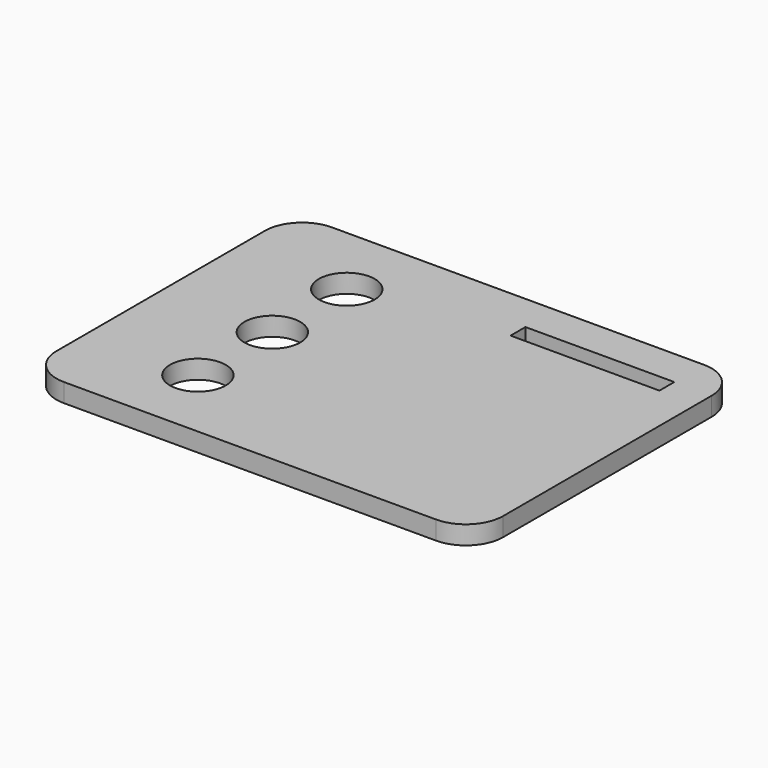
from build123d import *

# Parameters (mm, degrees)
F0_W     = 152.4
F0_H     = 114.3
F1_DEPTH = 6.35
F2_R     = 9.525
F3_DEPTH = 25.4
F5_R     = 12.7
F6_W     = 50.8
F6_H     = 6.35
F7_DEPTH = 25.4


with BuildPart() as f1:
    # F0 (on Top) → F1 (new body)
    with BuildSketch(Plane.XY):
        Rectangle(F0_W, F0_H)
    extrude(amount=F1_DEPTH)

    # F2 (on face) → F3 (cut)
    with BuildSketch(Plane(origin=(0, 0, 0), x_dir=(1, 0, 0), z_dir=(0, 0, -1))):
        with Locations((-38.1, 0)):
            Circle(F2_R)
        with Locations((-38.1, 31.75)):
            Circle(F2_R)
        with Locations((-38.1, -31.75)):
            Circle(F2_R)
    extrude(amount=-F3_DEPTH, mode=Mode.SUBTRACT)

    # F5
    f5_edges = [f1.edges().sort_by_distance(p)[0] for p in [
        (-76.2, -57.15, 3.175),
        (-76.2, 57.15, 3.175),
        (76.2, 57.15, 3.175),
        (76.2, -57.15, 3.175),
    ]]
    fillet(f5_edges, radius=F5_R)

    # F6 (on face) → F7 (cut)
    with BuildSketch(Plane(origin=(0, 0, 0), x_dir=(1, 0, 0), z_dir=(0, 0, -1))):
        with Locations((38.1, -41.275)):
            Rectangle(F6_W, F6_H)
    extrude(amount=-F7_DEPTH, mode=Mode.SUBTRACT)


solid = f1.part
